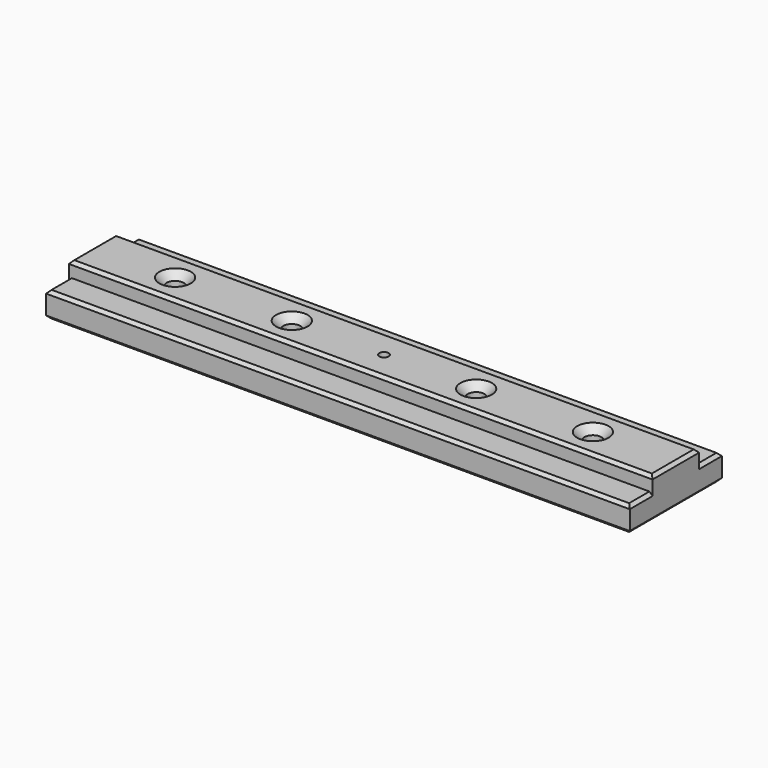
from build123d import *

# Parameters (mm, degrees)
F1_DEPTH       = 190
F2_SIZE        = 2
F4_D           = 6
F5_D           = 11
F5_CSINK_D     = 20.5
F5_CSINK_ANGLE = 90


with BuildPart() as f1:
    # F0 (on Right) → F1 (new body, symmetric)
    with BuildSketch(Plane.YZ):
        Polygon((19, 13), (-19, 13), (-19, 3.5), (-37.5, 3.5), (-37.5, -13), (37.5, -13), (37.5, 3.5), (19, 3.5), align=None)
    extrude(amount=F1_DEPTH, both=True)

    # F2
    f2_edges = [f1.edges().sort_by_distance(p)[0] for p in [
        (0, -37.5, -13),
        (-190, 0, -13),
        (0, 37.5, -13),
        (190, 0, -13),
        (-190, 0, 13),
        (0, -19, 13),
        (190, 0, 13),
        (0, 19, 13),
        (0, -37.5, 3.5),
        (0, 37.5, 3.5),
        (190, 28.25, 3.5),
        (190, -28.25, 3.5),
        (-190, -28.25, 3.5),
        (-190, 28.25, 3.5),
    ]]
    chamfer(f2_edges, length=F2_SIZE)

    # F4 (through all)
    with Locations(Plane.XY.offset(13)):
        with Locations((0, 0)):
            Hole(F4_D / 2)

    # F5 (through all)
    with Locations(Plane.XY.offset(13)):
        with Locations((-136, 0), (-60, 0), (60, 0), (136, 0)):
            CounterSinkHole(F5_D / 2, F5_CSINK_D / 2, counter_sink_angle=F5_CSINK_ANGLE)


solid = f1.part
